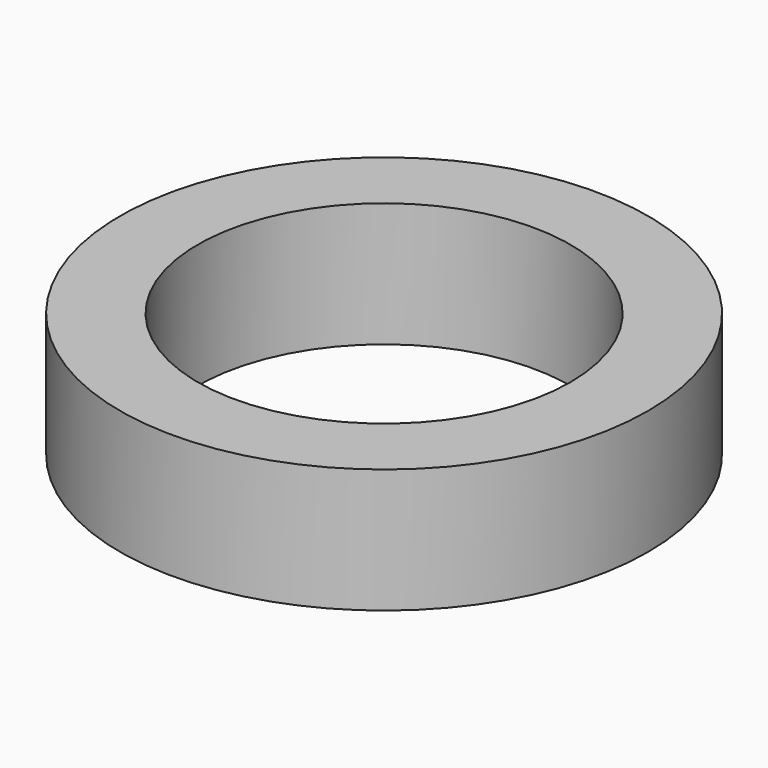
from build123d import *

# Parameters (mm, degrees)
SKETCH_R   = 8.5
SKETCH_R_2 = 6
PAD_DEPTH  = 2


with BuildPart() as part:
    # Sketch → Pad (new body, symmetric)
    with BuildSketch(Plane.XY):
        with Locations((7.646143, 7.885453)):
            Circle(SKETCH_R)
        with Locations((7.646143, 7.885453)):
            Circle(SKETCH_R_2, mode=Mode.SUBTRACT)
    extrude(amount=PAD_DEPTH, both=True)


solid = part.part
